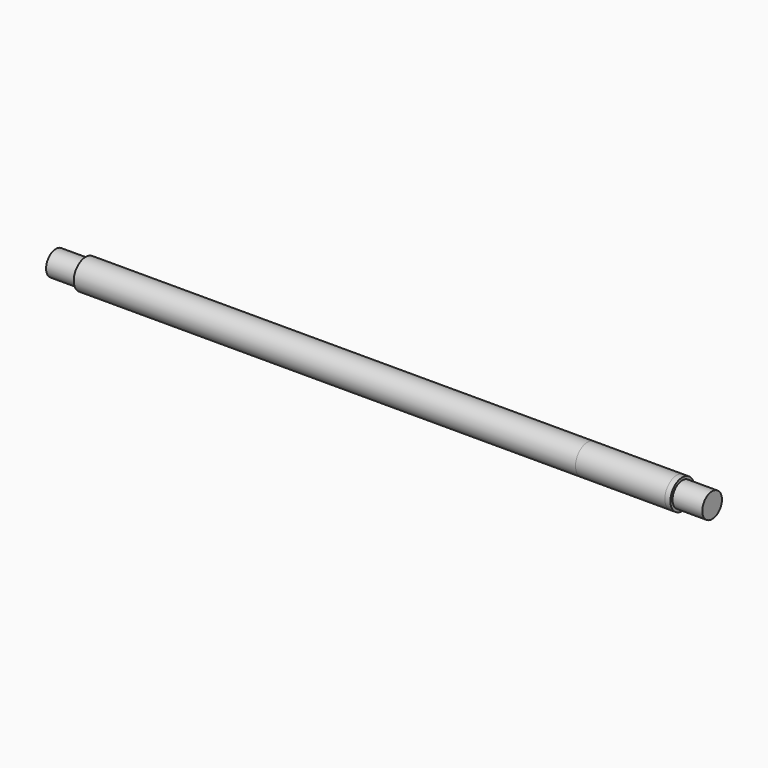
from build123d import *

# Parameters (mm, degrees)
SKETCH053_R         = 4
PAD024_DEPTH        = 134.8
SKETCH063_R         = 3.3
PAD028_DEPTH        = 8
SKETCH064_R         = 4
PAD029_DEPTH        = 50
CYLINDER001_R       = 100
CYLINDER001_DEPTH   = 100
CYLINDER001_FACE6_R = 4
PAD032_DEPTH        = 1.5
CYLINDER002_R       = 3.3
CYLINDER002_DEPTH   = 8


with BuildPart() as part:
    # Sketch053 (on Face1 of ShapeBinder012) → Pad024 (new body)
    with BuildSketch(Plane.YZ.offset(59.8)):
        with Locations((0, 75)):
            Circle(SKETCH053_R)
    extrude(amount=-PAD024_DEPTH)

    # Sketch063 (on Face3 of Pad024) → Pad028 (join)
    with BuildSketch(Plane(origin=(-75, 0, 0), x_dir=(0, -1, 0), z_dir=(-1, 0, 0))):
        with Locations((0, 75)):
            Circle(SKETCH063_R)
    extrude(amount=PAD028_DEPTH)

    # Sketch064 (on Face2 of Pad028) → Pad029 (join)
    with BuildSketch(Plane.YZ.offset(59.8)):
        with Locations((0, 75)):
            Circle(SKETCH064_R)
    extrude(amount=PAD029_DEPTH)

    # Cylinder001 → Cylinder001 (cut)
    with BuildSketch(Plane(origin=(83.8, 0, 75), x_dir=(0, -1, 0), z_dir=(1, 0, 0))):
        Circle(CYLINDER001_R)
    extrude(amount=CYLINDER001_DEPTH, mode=Mode.SUBTRACT)

    # Cylinder001 Face6 → Pad032 (add)
    with BuildSketch(Plane(origin=(83.8, 0, 75), x_dir=(0, -1, 0), z_dir=(1, 0, 0))):
        Circle(CYLINDER001_FACE6_R)
    extrude(amount=PAD032_DEPTH)

    # Cylinder002 → Cylinder002 (join)
    with BuildSketch(Plane(origin=(85.3, 0, 75), x_dir=(0, -1, 0), z_dir=(1, 0, 0))):
        Circle(CYLINDER002_R)
    extrude(amount=CYLINDER002_DEPTH)


solid = part.part
